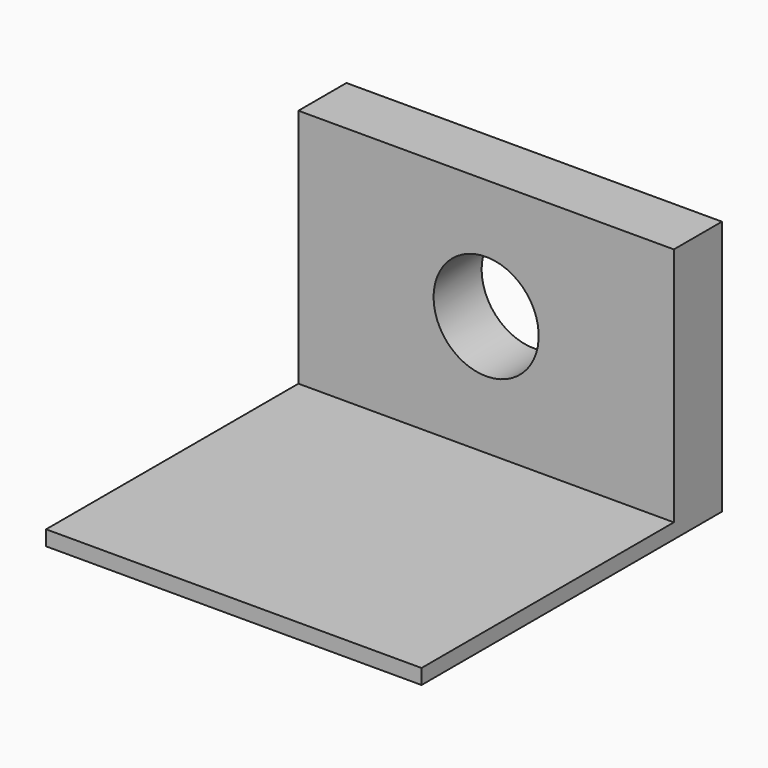
from build123d import *

# Parameters (mm, degrees)
F0_W     = 25
F0_H     = 25
F1_DEPTH = 17
F3_DEPTH = 16
F4_R     = 3.5
F5_DEPTH = 4


with BuildPart() as f1:
    # F0 (on Top) → F1 (new body)
    with BuildSketch(Plane.XY):
        Rectangle(F0_W, F0_H)
    extrude(amount=F1_DEPTH)

    # F2 (on face) → F3 (cut)
    with BuildSketch(Plane.XY.offset(17)):
        Polygon((-12.5, -12.5), (0, -12.5), (12.5, -12.5), (12.5, 8.5), (-12.5, 8.5), align=None)
    extrude(amount=-F3_DEPTH, mode=Mode.SUBTRACT)

    # F4 (on face) → F5 (cut, through all)
    with BuildSketch(Plane(origin=(0, 12.5, 0), x_dir=(-1, 0, 0), z_dir=(0, 1, 0))):
        with Locations((0, 9)):
            Circle(F4_R)
    extrude(amount=-F5_DEPTH, mode=Mode.SUBTRACT)


solid = f1.part
